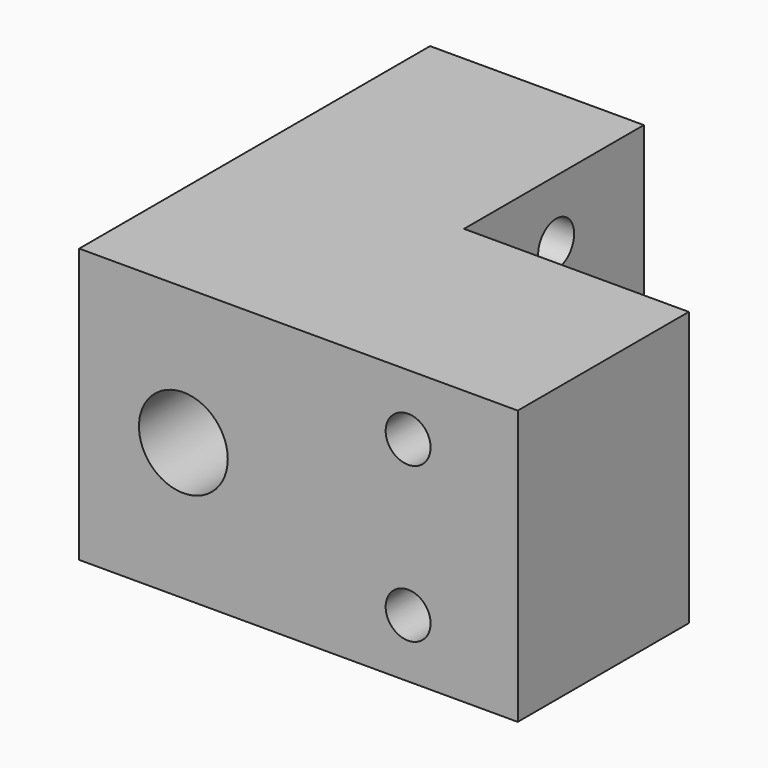
from build123d import *

# Parameters (mm, degrees)
F1_DEPTH = 25
F2_R     = 2.05
F2_R_2   = 4.05
F3_DEPTH = 45
F4_R     = 2.05
F5_DEPTH = 25


with BuildPart() as f1:
    # F0 (on Top) → F1 (new body)
    with BuildSketch(Plane.XY):
        Polygon((0, 20.5), (-19.5, 20.5), (-19.5, -19.5), (20.5, -19.5), (20.5, 0), (0, 0), align=None)
    extrude(amount=F1_DEPTH)

    # F2 (on face) → F3 (cut)
    with BuildSketch(Plane.XZ.offset(19.5)):
        with Locations((10.5, 19.445103)):
            Circle(F2_R)
        with Locations((10.5, 5.321864)):
            Circle(F2_R)
        with Locations((-10, 12.5)):
            Circle(F2_R_2)
    extrude(amount=-F3_DEPTH, mode=Mode.SUBTRACT)

    # F4 (on face) → F5 (cut)
    with BuildSketch(Plane(origin=(-19.5, 0, 0), x_dir=(0, -1, 0), z_dir=(-1, 0, 0))):
        with Locations((-10.5, 19.5)):
            Circle(F4_R)
        with Locations((-10.5, 5.5)):
            Circle(F4_R)
    extrude(amount=-F5_DEPTH, mode=Mode.SUBTRACT)


solid = f1.part
